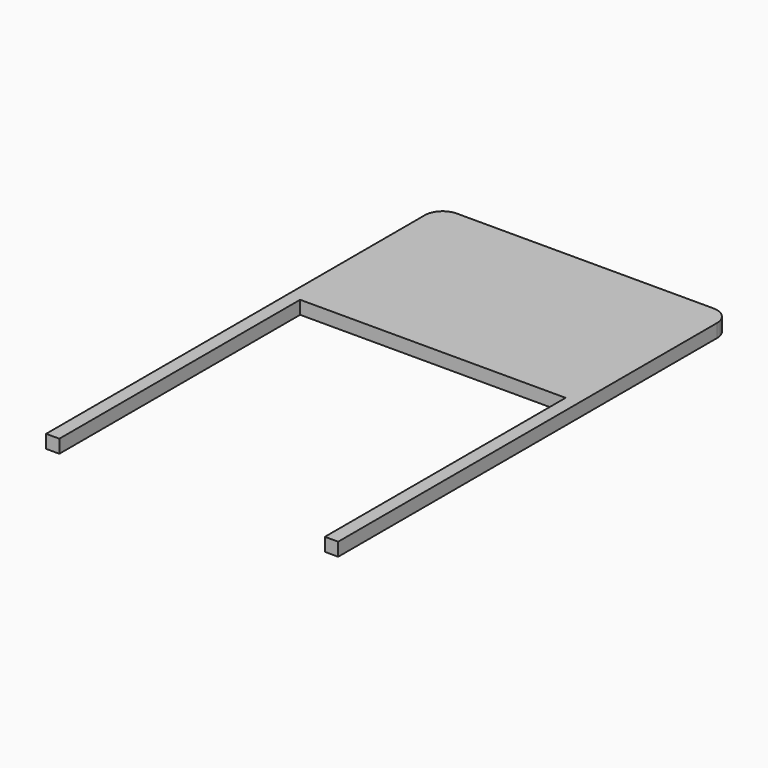
from build123d import *

# Parameters (mm, degrees)
F1_DEPTH = 38.1


with BuildPart() as f1:
    # F0 (on Top) → F1 (new body)
    with BuildSketch(Plane.XY):
        with BuildLine():
            Line((368.3, 704.85), (-368.3, 704.85))
            ThreePointArc((-368.3, 704.85), (-404.221024, 689.971024), (-419.1, 654.05))
            Line((-419.1, 654.05), (-419.1, -704.85))
            Line((-419.1, -704.85), (-381, -704.85))
            Line((-381, -704.85), (-381, 158.75))
            Line((-381, 158.75), (381, 158.75))
            Line((381, 158.75), (381, -704.85))
            Line((381, -704.85), (419.1, -704.85))
            Line((419.1, -704.85), (419.1, 654.05))
            ThreePointArc((419.1, 654.05), (404.221024, 689.971024), (368.3, 704.85))
        make_face()
    extrude(amount=F1_DEPTH)


solid = f1.part
